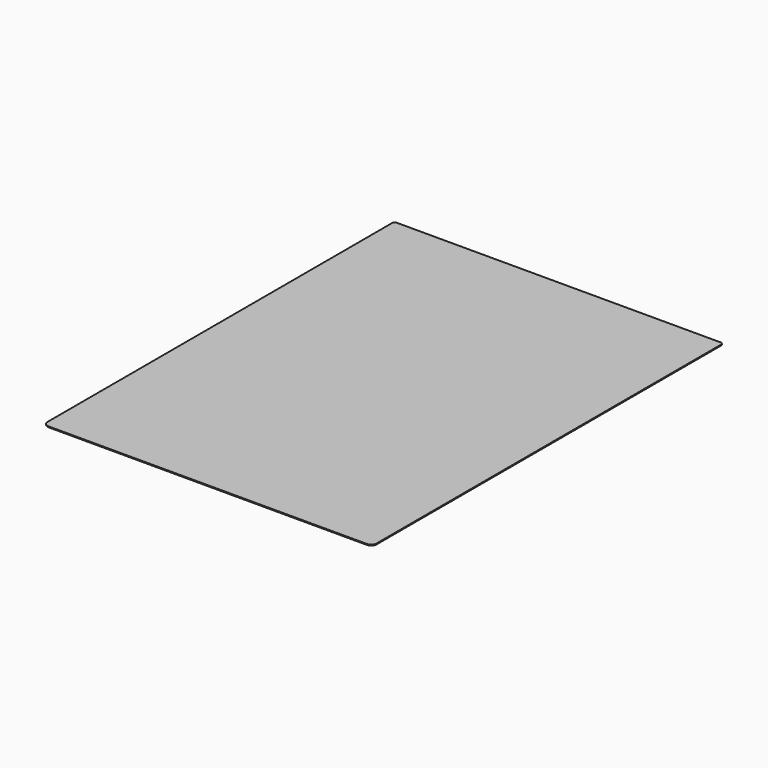
from build123d import *

# Parameters (mm, degrees)
F0_W     = 600
F0_H     = 800
F1_DEPTH = 1.6
F2_R     = 10
F3_R     = 10
F4_SIZE  = 3
F5_SIZE  = 3


with BuildPart() as f1:
    # F0 (on Top) → F1 (new body)
    with BuildSketch(Plane.XY):
        with Locations((-153.864802, 365.292372)):
            Rectangle(F0_W, F0_H)
    extrude(amount=F1_DEPTH)

    # F2
    f2_edges = [f1.edges().sort_by_distance(p)[0] for p in [
        (146.135198, -34.707628, 0.8),
    ]]
    fillet(f2_edges, radius=F2_R)

    # F3
    f3_edges = [f1.edges().sort_by_distance(p)[0] for p in [
        (-453.864802, -34.707628, 0.8),
    ]]
    fillet(f3_edges, radius=F3_R)

    # F4
    f4_edges = [f1.edges().sort_by_distance(p)[0] for p in [
        (146.135198, 765.292372, 0.8),
    ]]
    chamfer(f4_edges, length=F4_SIZE)

    # F5
    f5_edges = [f1.edges().sort_by_distance(p)[0] for p in [
        (-453.864802, 765.292372, 0.8),
    ]]
    chamfer(f5_edges, length=F5_SIZE)


solid = f1.part
